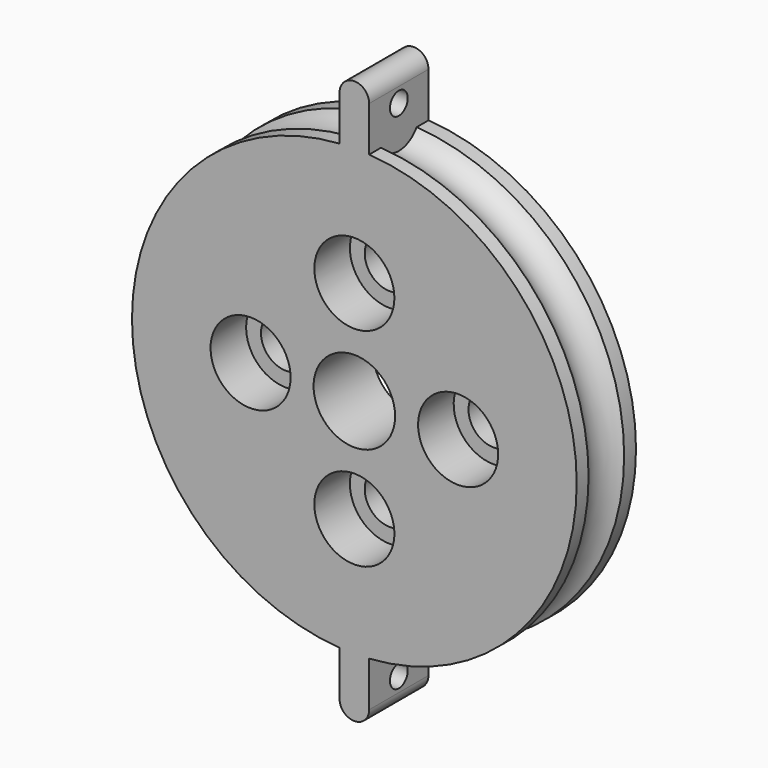
from build123d import *

# Parameters (mm, degrees)
SKETCH015_R           = 15
SKETCH015_R_2         = 2.75
SKETCH015_R_3         = 1.7
PAD005_DEPTH          = 5
SKETCH016_R           = 2.7
POCKET011_DEPTH       = 88.441037
POLARPATTERN001_COUNT = 4
PAD008_DEPTH          = 5
SKETCH023_R           = 0.75
POCKET014_DEPTH       = 5
POLARPATTERN002_COUNT = 2


with BuildPart() as part:
    # Sketch015 → Pad005 (new body)
    with BuildSketch(Plane.XZ):
        Circle(SKETCH015_R)
        Circle(SKETCH015_R_2, mode=Mode.SUBTRACT)
        with Locations((0, 7)):
            Circle(SKETCH015_R_3, mode=Mode.SUBTRACT)
        with Locations((-7, 0)):
            Circle(SKETCH015_R_3, mode=Mode.SUBTRACT)
        with Locations((0, -7)):
            Circle(SKETCH015_R_3, mode=Mode.SUBTRACT)
        with Locations((7, 0)):
            Circle(SKETCH015_R_3, mode=Mode.SUBTRACT)
    extrude(amount=PAD005_DEPTH)

    # Sketch016 → Pocket011 (cut, through all)
    with BuildSketch(Plane.XZ.offset(2)):
        with Locations((0, 7)):
            Circle(SKETCH016_R)
    pocket011 = extrude(amount=POCKET011_DEPTH, mode=Mode.SUBTRACT)

    # PolarPattern001: Pocket011 ×4 about axis
    polarpattern001_axis = Axis((0, -2, 0), (0, -1, 0))
    for i in range(1, POLARPATTERN001_COUNT):
        add(pocket011.rotate(polarpattern001_axis, i * 360 / POLARPATTERN001_COUNT), mode=Mode.SUBTRACT)

    # Sketch021 → Groove001 (revolve, cut)
    with BuildSketch(Plane.YZ):
        with BuildLine():
            ThreePointArc((-4, 15), (-2.5, 14.197224), (-1, 15))
            Line((-4, 15), (-1, 15))
        make_face()
    revolve(axis=Axis((0, 0, 0), (0, 1, 0)), mode=Mode.SUBTRACT)

    # Sketch022 (on Face10 of Groove001) → Pad008 (join)
    with BuildSketch(Plane.XZ.offset(5)):
        with BuildLine():
            ThreePointArc((1, 18), (0, 19), (-1, 18))
            Line((-1, 18), (-1, 10))
            Line((-1, 10), (1, 10))
            Line((1, 10), (1, 18))
        make_face()
    pad008 = extrude(amount=-PAD008_DEPTH)

    # Sketch023 (on Face6 of Pad008) → Pocket014 (cut)
    with BuildSketch(Plane(origin=(1, 0, 0), x_dir=(0, 0, 1), z_dir=(1, 0, 0))):
        with Locations((17, 2.5)):
            Circle(SKETCH023_R)
    pocket014 = extrude(amount=-POCKET014_DEPTH, mode=Mode.SUBTRACT)

    # PolarPattern002: Pad008, Pocket014 ×2 about axis
    polarpattern002_axis = Axis((0, -5, 0), (0, -1, 0))
    for i in range(1, POLARPATTERN002_COUNT):
        add(pad008.rotate(polarpattern002_axis, i * 360 / POLARPATTERN002_COUNT))
        add(pocket014.rotate(polarpattern002_axis, i * 360 / POLARPATTERN002_COUNT), mode=Mode.SUBTRACT)


with BuildPart() as part_1:
    # Body004 placement: moved
    add(part.part.moved(Location((0, -4.8, 0))))


solid = part_1.part
